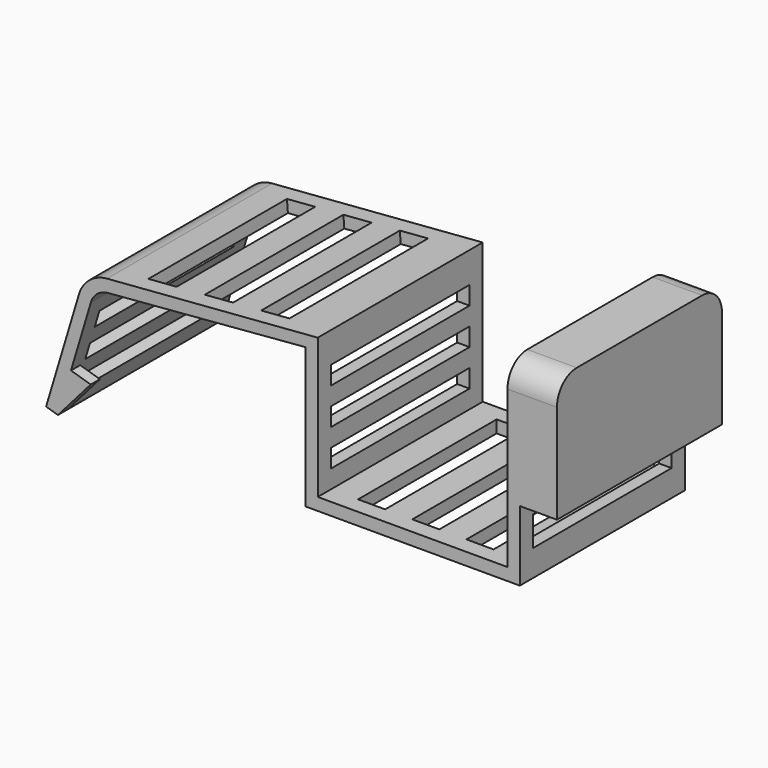
from build123d import *

# Parameters (mm, degrees)
PAD_DEPTH       = 25
SKETCH001_W     = 3.2857142857
SKETCH001_H     = 21
POCKET_DEPTH    = 1.501
SKETCH002_W     = 2.2142857143
SKETCH002_H     = 21
POCKET001_DEPTH = 1.5
SKETCH003_W     = 3.4317132954
SKETCH003_H     = 21
POCKET002_DEPTH = 20.7120716736
SKETCH004_W     = 1.9877118903
SKETCH004_H     = 21
POCKET003_DEPTH = 1.5
FILLET_R        = 3
PAD001_DEPTH    = 1.4
SKETCH006_W     = 3.6
SKETCH006_H     = 21
POCKET004_DEPTH = 6.001


with BuildPart() as part:
    # Sketch → Pad (new body)
    with BuildSketch(Plane.XZ):
        with BuildLine():
            Line((0, 0), (0, -17))
            Line((0, -17), (26, -17))
            Line((26, -17), (26, -8.5))
            Line((26, -8.5), (30.5, -8.5))
            Line((30.5, -8.5), (30.5, 6.5))
            Line((30.5, 6.5), (24.5, 6.5))
            Line((24.5, 6.5), (24.5, -15.5))
            Line((24.5, -15.5), (1.5, -15.5))
            Line((1.5, -15.5), (1.5, 1.5))
            Line((1.5, 1.5), (-24.044265063, -0.50362671))
            ThreePointArc((-24.044265063, -0.50362671), (-26.165331878, -1.347225864), (-27.4385857662, -3.2417992996))
            Line((-27.4385857662, -3.2417992996), (-31.4367394278, -16.5689781716))
            Line((-31.4367394278, -16.5689781716), (-30, -17))
            Line((-30, -17), (-26.0018463384, -3.6728211279))
            ThreePointArc((-23.9389017142, -2), (-25.2281870129, -2.5184722585), (-26.0018463384, -3.6728211279))
            Line((-23.9389017142, -2), (0, 0))
        make_face()
    extrude(amount=PAD_DEPTH)

    # Sketch001 → Pocket (cut, through all)
    with BuildSketch(Plane(origin=(0, 0, -15.5), x_dir=(-1, 0, 0), z_dir=(0, 0, 1))):
        with Locations((-6.4285714286, 12.5)):
            Rectangle(SKETCH001_W, SKETCH001_H)
        with Locations((-13, 12.5)):
            Rectangle(SKETCH001_W, SKETCH001_H)
        with Locations((-19.5714285714, 12.5)):
            Rectangle(SKETCH001_W, SKETCH001_H)
    extrude(amount=-POCKET_DEPTH, mode=Mode.SUBTRACT)

    # Sketch002 → Pocket001 (cut)
    with BuildSketch(Plane(origin=(1.5, 0, 0), x_dir=(0, 0, 1), z_dir=(1, 0, 0))):
        with Locations((-3.3214285714, 12.5)):
            Rectangle(SKETCH002_W, SKETCH002_H)
        with Locations((-7.75, 12.5)):
            Rectangle(SKETCH002_W, SKETCH002_H)
        with Locations((-12.1785714286, 12.5)):
            Rectangle(SKETCH002_W, SKETCH002_H)
    extrude(amount=-POCKET001_DEPTH, mode=Mode.SUBTRACT)

    # Sketch003 → Pocket002 (cut, through all)
    with BuildSketch(Plane(origin=(-0.1077644959, 0, 1.3738910718), x_dir=(-0.9969379064, 0, -0.0781972553), z_dir=(-0.0781972553, 0, 0.9969379064))):
        with Locations((18.8744231246, 12.5)):
            Rectangle(SKETCH003_W, SKETCH003_H)
        with Locations((12.0109965338, 12.5)):
            Rectangle(SKETCH003_W, SKETCH003_H)
        with Locations((5.1475699431, 12.5)):
            Rectangle(SKETCH003_W, SKETCH003_H)
    extrude(amount=-POCKET002_DEPTH, mode=Mode.SUBTRACT)

    # Sketch004 → Pocket003 (cut)
    with BuildSketch(Plane(origin=(-24.2807761251, 0, 7.2842328375), x_dir=(-0.2873478856, 0, -0.9578262852), z_dir=(-0.9578262852, 0, 0.2873478856))):
        with Locations((21.9219155803, 12.5)):
            Rectangle(SKETCH004_W, SKETCH004_H)
        with Locations((17.9464917996, 12.5)):
            Rectangle(SKETCH004_W, SKETCH004_H)
        with Locations((13.9710680189, 12.5)):
            Rectangle(SKETCH004_W, SKETCH004_H)
    extrude(amount=-POCKET003_DEPTH, mode=Mode.SUBTRACT)

    # Fillet
    fillet_edges = [part.edges().sort_by_distance(p)[0] for p in [
        (27.5, -25, 6.5),
        (27.5, 0, 6.5),
    ]]
    fillet(fillet_edges, radius=FILLET_R)

    # Sketch005 → Pad001 (new body)
    with BuildSketch(Plane.XZ.offset(25)):
        Polygon((-28.4195866294, -11.7319554313), (-26.0250209163, -12.4503251452), (-30, -17), align=None)
    extrude(amount=-PAD001_DEPTH)

    # Sketch006 → Pocket004 (cut, through all)
    with BuildSketch(Plane(origin=(24.5, 0, 0), x_dir=(0, 0, -1), z_dir=(-1, 0, 0))):
        with Locations((12, 12.5)):
            Rectangle(SKETCH006_W, SKETCH006_H)
    extrude(amount=-POCKET004_DEPTH, mode=Mode.SUBTRACT)


solid = part.part
